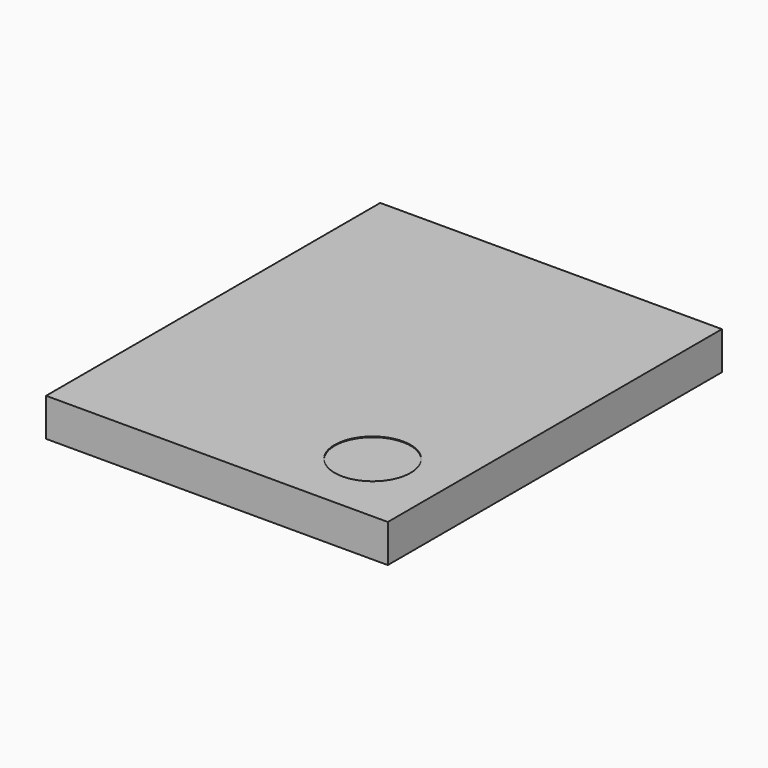
from build123d import *

# Parameters (mm, degrees)
CYLINDER019_R          = 0.5
CYLINDER019_DEPTH      = 0.01
BOX054_W               = 4.5
BOX054_H               = 5.5
BOX054_DEPTH           = 0.5
CUT007_PLACEMENT_ANGLE = 180


with BuildPart() as cylinder019:
    # Cylinder019 → Cylinder019 (new body)
    with BuildSketch(Plane(origin=(1, 4.5, 0.49), x_dir=(1, 0, 0), z_dir=(0, 0, 1))):
        Circle(CYLINDER019_R)
    extrude(amount=CYLINDER019_DEPTH)


with BuildPart() as obj1:
    # Box054 → Box054 (new body)
    with BuildSketch(Plane.XY):
        with Locations((2.25, 2.75)):
            Rectangle(BOX054_W, BOX054_H)
    extrude(amount=BOX054_DEPTH)

    # Cut007: cut Cylinder019
    add(cylinder019.part, mode=Mode.SUBTRACT)


with BuildPart() as obj1_1:
    # Cut007 placement: moved
    add(obj1.part.moved(Location((2.12, 3.12, 2.19))).rotate(Axis((2.12, 3.12, 2.19), (0, 0, 1)), CUT007_PLACEMENT_ANGLE))


solid = obj1_1.part
